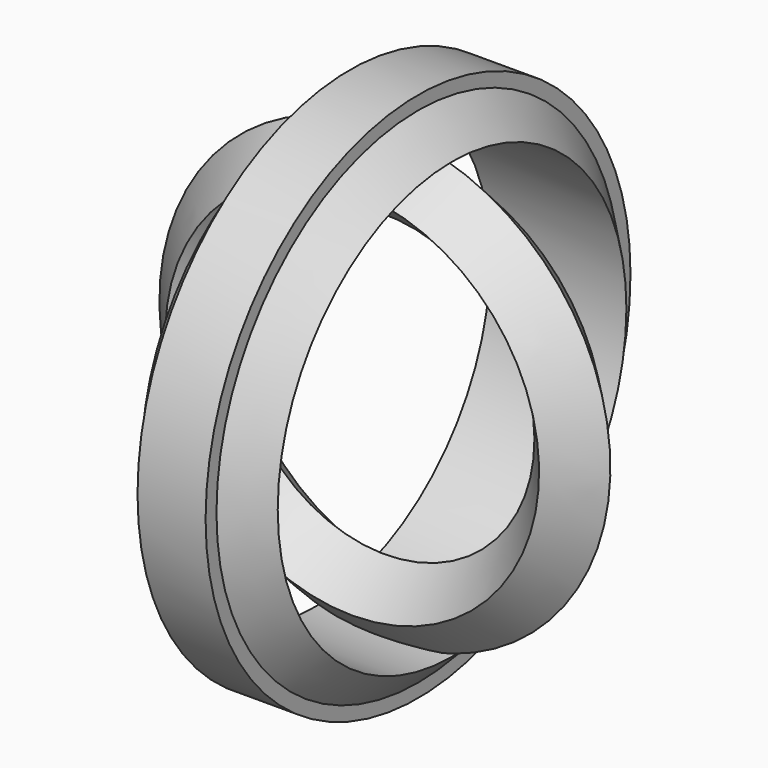
from build123d import *


with BuildPart() as f2:
    # F2: sweep along a path in F1
    with BuildLine(Plane.YZ) as f2_path:
        CenterArc((0, 0), 44.45, 0, 360)
    # F0 (on Front) → F2 (sweep)
    with BuildSketch(Plane.XZ):
        Polygon((-6.35, -47.010485), (0, -40.660485), (-25.4, -40.660485), (-19.05, -47.010485), (-19.05, -49.550485), (-6.35, -49.550485), align=None)
    sweep(path=f2_path.line)


with BuildPart() as f5:
    # F5: sweep along a path in F3
    with BuildLine(Plane.XZ) as f5_path:
        CenterArc((-12.536131, 0), 38.1, 0, 360)
    # F4 (on Right) → F5 (sweep)
    with BuildSketch(Plane.YZ):
        Polygon((-7.62, -32.546064), (0, -40.166064), (7.596936, -32.569128), (-0.023064, -24.949128), align=None)
    sweep(path=f5_path.line)


solid = Compound([f2.part, f5.part])
